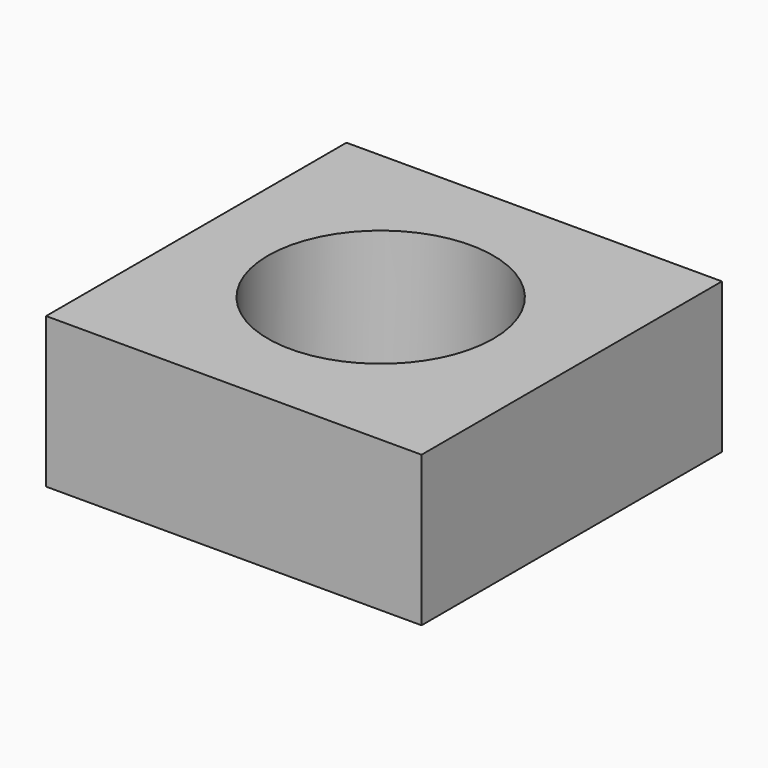
from build123d import *

# Parameters (mm, degrees)
F1_W     = 25
F1_H     = 25
F1_R     = 7.5
F2_DEPTH = 10


with BuildPart() as f2:
    # F1 (on face) → F2 (new body)
    with BuildSketch(Plane.XY):
        with Locations((-4.516231, -0.139123)):
            Rectangle(F1_W, F1_H)
        with Locations((-4.758505, -0.112338)):
            Circle(F1_R, mode=Mode.SUBTRACT)
    extrude(amount=F2_DEPTH)


solid = f2.part
